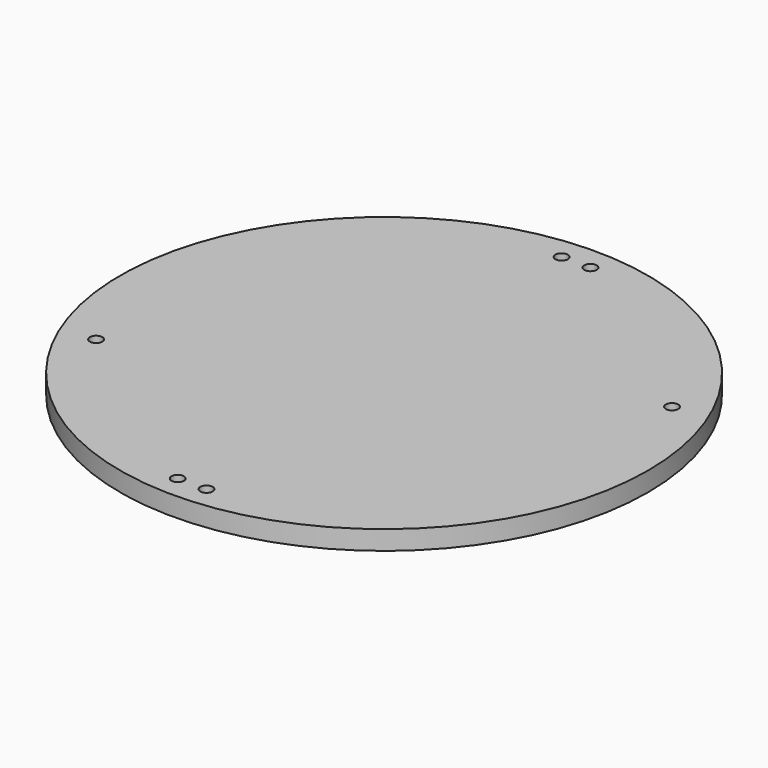
from build123d import *

# Parameters (mm, degrees)
SKETCH_R        = 55
PAD_DEPTH       = 4
SKETCH003_R     = 1.3
POCKET001_DEPTH = 5
SKETCH004_R     = 1.3
POCKET_DEPTH    = 5


with BuildPart() as part:
    # Sketch → Pad (new body)
    with BuildSketch(Plane.XY):
        Circle(SKETCH_R)
    extrude(amount=PAD_DEPTH)

    # Sketch003 → Pocket001 (cut)
    with BuildSketch(Plane.XY.offset(4)):
        with Locations((-44, -20)):
            Circle(SKETCH003_R)
        with Locations((44, 20)):
            Circle(SKETCH003_R)
    extrude(amount=-POCKET001_DEPTH, mode=Mode.SUBTRACT)

    # Sketch004 (on Face3 of Pocket001) → Pocket (cut)
    with BuildSketch(Plane.XY.offset(4)):
        with Locations((3, -50)):
            Circle(SKETCH004_R)
        with Locations((-3, -50)):
            Circle(SKETCH004_R)
        with Locations((-3, 50)):
            Circle(SKETCH004_R)
        with Locations((3, 50)):
            Circle(SKETCH004_R)
    extrude(amount=-POCKET_DEPTH, mode=Mode.SUBTRACT)


solid = part.part
